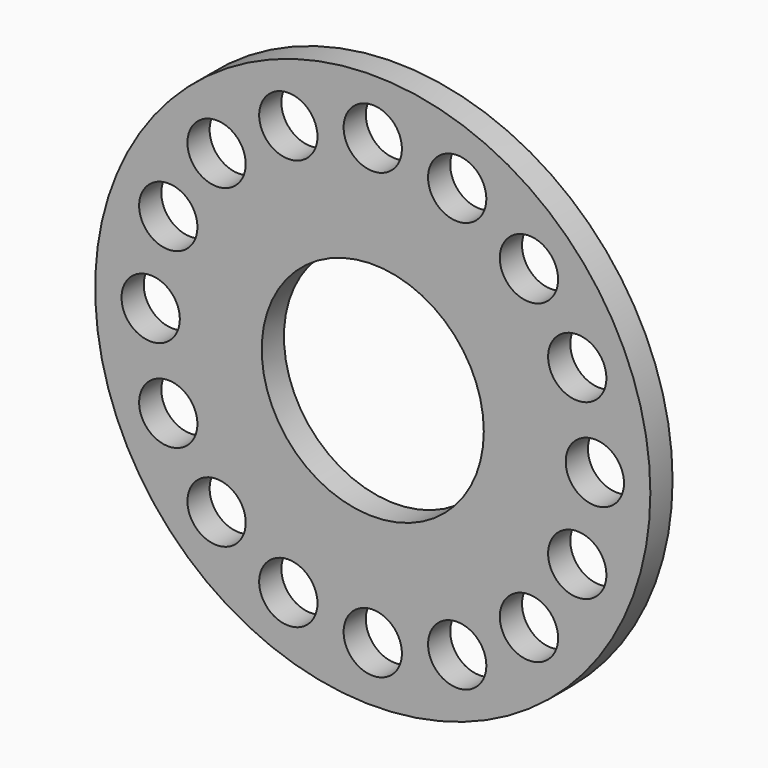
from build123d import *

# Parameters (mm, degrees)
F0_R     = 50
F0_R_2   = 5.25
F0_R_3   = 20
F1_DEPTH = 5


with BuildPart() as f1:
    # F0 (on Front) → F1 (new body)
    with BuildSketch(Plane.XZ):
        Circle(F0_R)
        with Locations((-28.132158, -28.435571)):
            Circle(F0_R_2, mode=Mode.SUBTRACT)
        with Locations((-15.208175, -36.9961)):
            Circle(F0_R_2, mode=Mode.SUBTRACT)
        with Locations((-36.830832, -15.604161)):
            Circle(F0_R_2, mode=Mode.SUBTRACT)
        with Locations((0, -40)):
            Circle(F0_R_2, mode=Mode.SUBTRACT)
        with Locations((15.208175, -36.9961)):
            Circle(F0_R_2, mode=Mode.SUBTRACT)
        with Locations((28.132158, -28.435571)):
            Circle(F0_R_2, mode=Mode.SUBTRACT)
        with Locations((36.830832, -15.604161)):
            Circle(F0_R_2, mode=Mode.SUBTRACT)
        with Locations((-40, 0)):
            Circle(F0_R_2, mode=Mode.SUBTRACT)
        with Locations((-36.830832, 15.604161)):
            Circle(F0_R_2, mode=Mode.SUBTRACT)
        with Locations((-28.132158, 28.435571)):
            Circle(F0_R_2, mode=Mode.SUBTRACT)
        with Locations((-15.208175, 36.9961)):
            Circle(F0_R_2, mode=Mode.SUBTRACT)
        Circle(F0_R_3, mode=Mode.SUBTRACT)
        with Locations((40, 0)):
            Circle(F0_R_2, mode=Mode.SUBTRACT)
        with Locations((36.830832, 15.604161)):
            Circle(F0_R_2, mode=Mode.SUBTRACT)
        with Locations((15.208175, 36.9961)):
            Circle(F0_R_2, mode=Mode.SUBTRACT)
        with Locations((0, 40)):
            Circle(F0_R_2, mode=Mode.SUBTRACT)
        with Locations((28.132158, 28.435571)):
            Circle(F0_R_2, mode=Mode.SUBTRACT)
        Circle(F0_R)
        with Locations((-28.132158, -28.435571)):
            Circle(F0_R_2, mode=Mode.SUBTRACT)
        with Locations((-15.208175, -36.9961)):
            Circle(F0_R_2, mode=Mode.SUBTRACT)
        with Locations((-36.830832, -15.604161)):
            Circle(F0_R_2, mode=Mode.SUBTRACT)
        with Locations((0, -40)):
            Circle(F0_R_2, mode=Mode.SUBTRACT)
        with Locations((15.208175, -36.9961)):
            Circle(F0_R_2, mode=Mode.SUBTRACT)
        with Locations((28.132158, -28.435571)):
            Circle(F0_R_2, mode=Mode.SUBTRACT)
        with Locations((36.830832, -15.604161)):
            Circle(F0_R_2, mode=Mode.SUBTRACT)
        with Locations((-40, 0)):
            Circle(F0_R_2, mode=Mode.SUBTRACT)
        with Locations((-36.830832, 15.604161)):
            Circle(F0_R_2, mode=Mode.SUBTRACT)
        with Locations((-28.132158, 28.435571)):
            Circle(F0_R_2, mode=Mode.SUBTRACT)
        with Locations((-15.208175, 36.9961)):
            Circle(F0_R_2, mode=Mode.SUBTRACT)
        Circle(F0_R_3, mode=Mode.SUBTRACT)
        with Locations((40, 0)):
            Circle(F0_R_2, mode=Mode.SUBTRACT)
        with Locations((36.830832, 15.604161)):
            Circle(F0_R_2, mode=Mode.SUBTRACT)
        with Locations((15.208175, 36.9961)):
            Circle(F0_R_2, mode=Mode.SUBTRACT)
        with Locations((0, 40)):
            Circle(F0_R_2, mode=Mode.SUBTRACT)
        with Locations((28.132158, 28.435571)):
            Circle(F0_R_2, mode=Mode.SUBTRACT)
    extrude(amount=F1_DEPTH)


solid = f1.part
